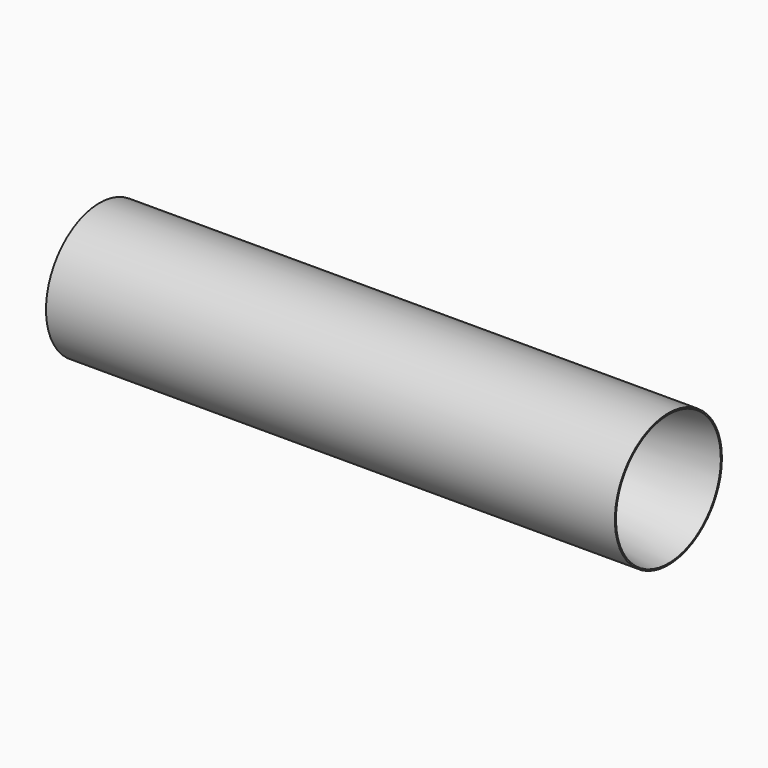
from build123d import *

# Parameters (mm, degrees)
F1_R     = 12.7
F2_DEPTH = 54


with BuildPart() as f2:
    # F1 (on Right) → F2 (new body, symmetric)
    with BuildSketch(Plane.YZ):
        Circle(F1_R)
    extrude(amount=F2_DEPTH, both=True)

    # F0 (on Front) → F3 (revolve, cut)
    with BuildSketch(Plane.XZ):
        Polygon((-27.0002, 0), (0, 0), (54, 0), (54, 12.446), (-1, 3.9624), (-27.0002, 3.9624), align=None)
    revolve(axis=Axis((-13.5001, 0, 0), (1, 0, 0)), mode=Mode.SUBTRACT)


solid = f2.part
